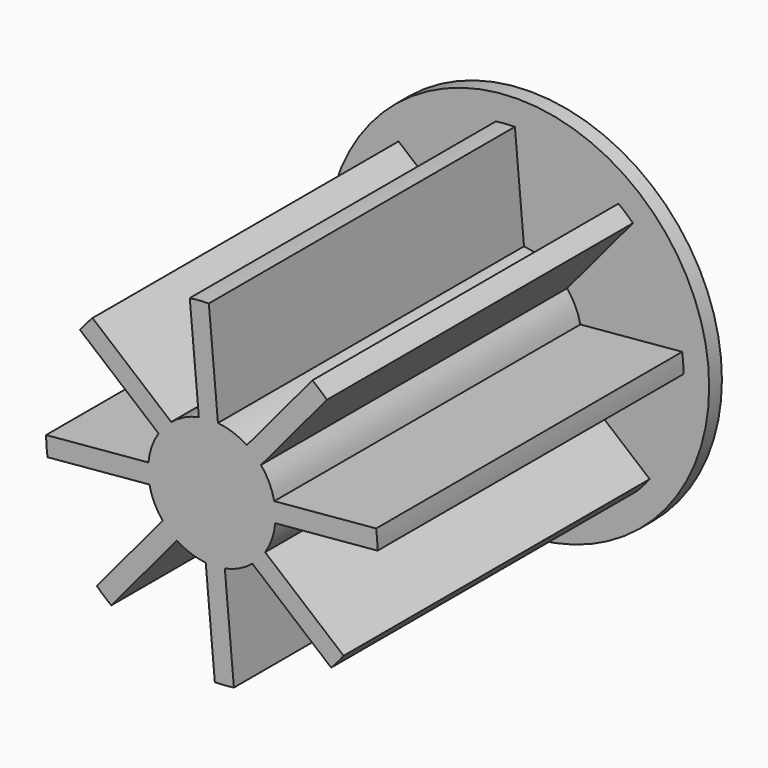
from build123d import *

# Parameters (mm, degrees)
F0_R     = 30
F0_R_2   = 8.5
F1_DEPTH = 2.5
F3_DEPTH = 60
F4_DEPTH = 40


with BuildPart() as f1:
    # F0 (on Front) → F1 (new body)
    with BuildSketch(Plane.XZ):
        Circle(F0_R)
        Circle(F0_R_2, mode=Mode.SUBTRACT)
    extrude(amount=-F1_DEPTH)

    # F2 (on Front) → F3 (join)
    with BuildSketch(Plane.XZ):
        with BuildLine():
            ThreePointArc((9.9539621754, -0.9584555339), (9.9884839128, -0.4797802861), (10, 0))
            ThreePointArc((10, 0), (9.9474412154, 1.0239205366), (9.790317347, 2.0370778693))
            ThreePointArc((9.790317347, 2.0370778693), (9.0162927853, 4.3250970404), (7.7162445614, 6.3607837464))
            ThreePointArc((7.7162445614, 6.3607837464), (6.6748253827, 7.4462545021), (5.4823682108, 8.3632313612))
            ThreePointArc((5.4823682108, 8.3632313612), (3.3171763231, 9.4337872163), (0.9584555339, 9.9539621754))
            ThreePointArc((0.9584555339, 9.9539621754), (-0.5454827615, 9.9851113442), (-2.0370778693, 9.790317347))
            ThreePointArc((-2.0370778693, 9.790317347), (-4.3250970404, 9.0162927853), (-6.3607837464, 7.7162445614))
            ThreePointArc((-6.3607837464, 7.7162445614), (-7.4462545021, 6.6748253827), (-8.3632313612, 5.4823682108))
            ThreePointArc((-8.3632313612, 5.4823682108), (-9.4337872163, 3.3171763231), (-9.9539621754, 0.9584555339))
            ThreePointArc((-9.9539621754, 0.9584555339), (-9.9851113442, -0.5454827615), (-9.790317347, -2.0370778693))
            ThreePointArc((-9.790317347, -2.0370778693), (-9.0162927853, -4.3250970404), (-7.7162445614, -6.3607837464))
            ThreePointArc((-7.7162445614, -6.3607837464), (-6.6748253827, -7.4462545021), (-5.4823682108, -8.3632313612))
            ThreePointArc((-5.4823682108, -8.3632313612), (-3.3171763231, -9.4337872163), (-0.9584555339, -9.9539621754))
            ThreePointArc((-0.9584555339, -9.9539621754), (0.5454827615, -9.9851113442), (2.0370778693, -9.790317347))
            ThreePointArc((2.0370778693, -9.790317347), (4.3250970404, -9.0162927853), (6.3607837464, -7.7162445614))
            ThreePointArc((6.3607837464, -7.7162445614), (7.4462545021, -6.6748253827), (8.3632313612, -5.4823682108))
            ThreePointArc((8.3632313612, -5.4823682108), (9.4337872163, -3.3171763231), (9.9539621754, -0.9584555339))
        make_face()
        with BuildLine():
            ThreePointArc((-8.3632313612, 5.4823682108), (-7.4462545021, 6.6748253827), (-6.3607837464, 7.7162445614))
            Line((-6.3607837464, 7.7162445614), (-18.7140811189, 18.0494644761))
            ThreePointArc((-18.7140811189, 18.0494644761), (-19.7242264231, 16.9397429736), (-20.6686668466, 15.7735921965))
            Line((-20.6686668466, 15.7735921965), (-8.3632313612, 5.4823682108))
        make_face()
        with BuildLine():
            Line((-15.7735921965, -20.6686668466), (-5.4823682108, -8.3632313612))
            ThreePointArc((-5.4823682108, -8.3632313612), (-6.6748253827, -7.4462545021), (-7.7162445614, -6.3607837464))
            Line((-7.7162445614, -6.3607837464), (-18.0494644761, -18.7140811189))
            ThreePointArc((-18.0494644761, -18.7140811189), (-16.9397429736, -19.7242264231), (-15.7735921965, -20.6686668466))
        make_face()
        with BuildLine():
            Line((3.4613404795, -25.7685684912), (2.0370778693, -9.790317347))
            ThreePointArc((2.0370778693, -9.790317347), (0.5454827615, -9.9851113442), (-0.9584555339, -9.9539621754))
            Line((-0.9584555339, -9.9539621754), (0.469954935, -25.9957523907))
            ThreePointArc((0.469954935, -25.9957523907), (1.9689271292, -25.9253413856), (3.4613404795, -25.7685684912))
        make_face()
        with BuildLine():
            Line((20.6686668466, -15.7735921965), (8.3632313612, -5.4823682108))
            ThreePointArc((8.3632313612, -5.4823682108), (7.4462545021, -6.6748253827), (6.3607837464, -7.7162445614))
            Line((6.3607837464, -7.7162445614), (18.7140811189, -18.0494644761))
            ThreePointArc((18.7140811189, -18.0494644761), (19.7242264231, -16.9397429736), (20.6686668466, -15.7735921965))
        make_face()
        with BuildLine():
            ThreePointArc((9.790317347, 2.0370778693), (9.9474412154, 1.0239205366), (10, 0))
            ThreePointArc((10, 0), (9.9884839128, -0.4797802861), (9.9539621754, -0.9584555339))
            Line((9.9539621754, -0.9584555339), (25.9957523907, 0.469954935))
            ThreePointArc((25.9957523907, 0.469954935), (25.9253413856, 1.9689271292), (25.7685684912, 3.4613404795))
            Line((25.7685684912, 3.4613404795), (9.790317347, 2.0370778693))
        make_face()
        with BuildLine():
            ThreePointArc((5.4823682108, 8.3632313612), (6.6748253827, 7.4462545021), (7.7162445614, 6.3607837464))
            Line((7.7162445614, 6.3607837464), (18.0494644761, 18.7140811189))
            ThreePointArc((18.0494644761, 18.7140811189), (16.9397429736, 19.7242264231), (15.7735921965, 20.6686668466))
            Line((15.7735921965, 20.6686668466), (5.4823682108, 8.3632313612))
        make_face()
        with BuildLine():
            ThreePointArc((-2.0370778693, 9.790317347), (-0.5454827615, 9.9851113442), (0.9584555339, 9.9539621754))
            Line((0.9584555339, 9.9539621754), (-0.469954935, 25.9957523907))
            ThreePointArc((-0.469954935, 25.9957523907), (-1.9689271292, 25.9253413856), (-3.4613404795, 25.7685684912))
            Line((-3.4613404795, 25.7685684912), (-2.0370778693, 9.790317347))
        make_face()
        with BuildLine():
            ThreePointArc((-9.790317347, -2.0370778693), (-9.9851113442, -0.5454827615), (-9.9539621754, 0.9584555339))
            Line((-9.9539621754, 0.9584555339), (-25.9957523907, -0.469954935))
            ThreePointArc((-25.9957523907, -0.469954935), (-25.9253413856, -1.9689271292), (-25.7685684912, -3.4613404795))
            Line((-25.7685684912, -3.4613404795), (-9.790317347, -2.0370778693))
        make_face()
    extrude(amount=F3_DEPTH)

    # F4 (cut): a face of the model
    f4_faces = [f1.faces().sort_by_distance(p)[0] for p in [
        (0, 0, 0),
    ]]
    extrude(f4_faces, amount=-F4_DEPTH, mode=Mode.SUBTRACT)


solid = f1.part
